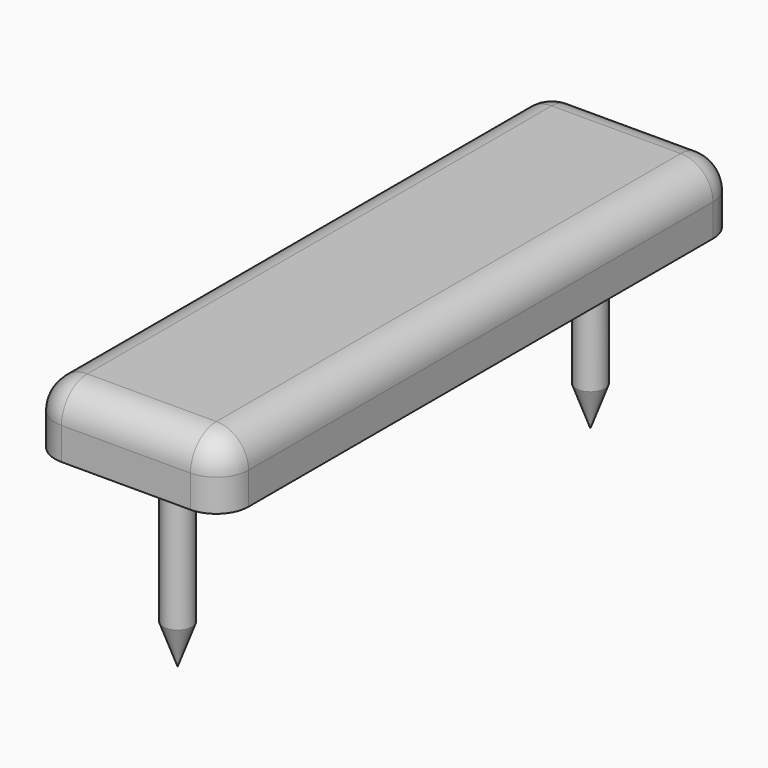
from build123d import *

# Parameters (mm, degrees)
F3_W       = 12
F3_H       = 40
F4_DEPTH   = 4
F5_R       = 2
F6_R       = 0.9
F7_DEPTH   = 11.5
F8_SIZE2   = 2.4727296775
F8_SIZE    = 0.9
F8_2_SIZE2 = 2.4727296775
F8_2_SIZE  = 0.9


with BuildPart() as f4:
    # F3 (on Top) → F4 (new body)
    with BuildSketch(Plane.XY):
        Rectangle(F3_W, F3_H)
    extrude(amount=F4_DEPTH)

    # F5
    f5_edges = [f4.edges().sort_by_distance(p)[0] for p in [
        (6, 0, 4),
        (-6, 0, 4),
        (0, -20, 4),
        (6, -20, 2),
        (-6, 20, 2),
        (6, 20, 2),
        (0, 20, 4),
        (-6, -20, 2),
    ]]
    fillet(f5_edges, radius=F5_R)

    # F6 (on face) → F7 (join)
    with BuildSketch(Plane(origin=(0, 0, 0), x_dir=(1, 0, 0), z_dir=(0, 0, -1))):
        with Locations((0, -16)):
            Circle(F6_R)
        with Locations((0, 16)):
            Circle(F6_R)
    extrude(amount=F7_DEPTH)

    # F8
    f8_edges = [f4.edges().sort_by_distance(p)[0] for p in [
        (-0.9, 16, -11.5),
    ]]
    f8_side = f4.faces().sort_by_distance((0, 16, -11.5))[0]
    chamfer(f8_edges, length=F8_SIZE, length2=F8_SIZE2, reference=f8_side)

    # F8#2
    f8_2_edges = [f4.edges().sort_by_distance(p)[0] for p in [
        (-0.9, -16, -11.5),
    ]]
    f8_2_side = f4.faces().sort_by_distance((0, -16, -11.5))[0]
    chamfer(f8_2_edges, length=F8_2_SIZE, length2=F8_2_SIZE2, reference=f8_2_side)


solid = f4.part
